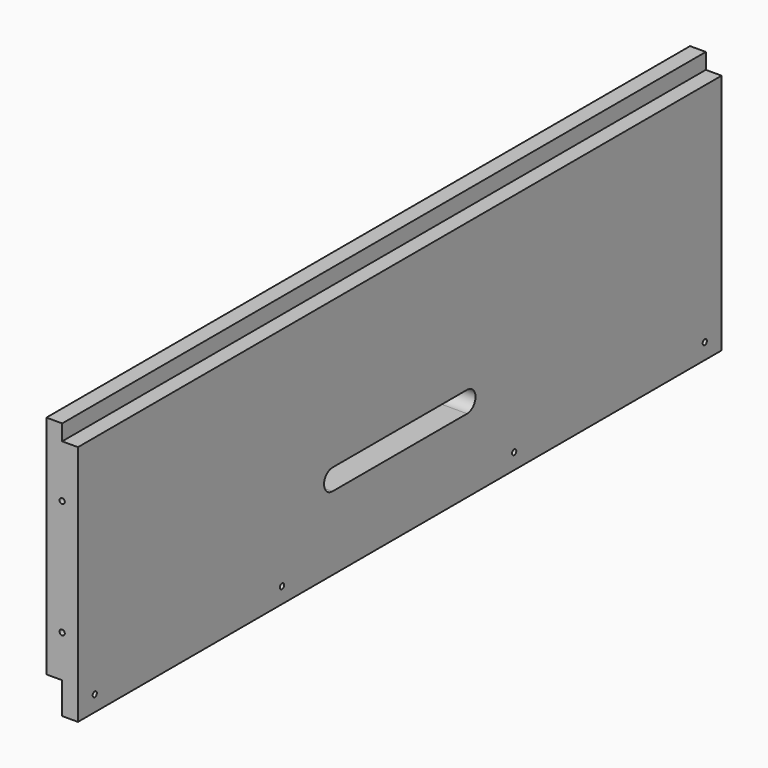
from build123d import *

# Parameters (mm, degrees)
F0_W     = 485.775
F0_H     = 19.05
F0_R     = 1.5875
F0_H_2   = 127
F1_DEPTH = 9.525
F0_H_3   = 9.525
F2_DEPTH = 9.525
F4_R     = 1.5875
F5_DEPTH = 9.525
F3_R     = 1.5875
F6_DEPTH = 9.525


with BuildPart() as f1:
    # F0 (on Right) → F1 (new body)
    with BuildSketch(Plane.YZ):
        with Locations((0, -148.74875)):
            Rectangle(F0_W, F0_H)
        with Locations((-230.1875, -148.74875)):
            Circle(F0_R, mode=Mode.SUBTRACT)
        with Locations((-88.9, -148.74875)):
            Circle(F0_R, mode=Mode.SUBTRACT)
        with Locations((86.36, -148.74875)):
            Circle(F0_R, mode=Mode.SUBTRACT)
        with Locations((230.1875, -148.74875)):
            Circle(F0_R, mode=Mode.SUBTRACT)
        with Locations((0, -75.72375)):
            Rectangle(F0_W, F0_H_2)
        with BuildLine():
            Line((-50.8, -101.12375), (50.8, -101.12375))
            ThreePointArc((50.8, -101.12375), (57.15, -107.47375), (50.8, -113.82375))
            Line((50.8, -113.82375), (-50.8, -113.82375))
            ThreePointArc((-50.8, -113.82375), (-57.15, -107.47375), (-50.8, -101.12375))
        make_face(mode=Mode.SUBTRACT)
    extrude(amount=F1_DEPTH)

    # F0 (on Right) → F2 (join)
    with BuildSketch(Plane.YZ):
        with Locations((0, -75.72375)):
            Rectangle(F0_W, F0_H_2)
        with BuildLine():
            Line((-50.8, -101.12375), (50.8, -101.12375))
            ThreePointArc((50.8, -101.12375), (57.15, -107.47375), (50.8, -113.82375))
            Line((50.8, -113.82375), (-50.8, -113.82375))
            ThreePointArc((-50.8, -113.82375), (-57.15, -107.47375), (-50.8, -101.12375))
        make_face(mode=Mode.SUBTRACT)
        with Locations((0, -7.46125)):
            Rectangle(F0_W, F0_H_3)
    extrude(amount=-F2_DEPTH)

    # F4 (on face) → F5 (cut)
    with BuildSketch(Plane(origin=(0, 242.8875, 0), x_dir=(-1, 0, 0), z_dir=(0, 1, 0))):
        with Locations((0, -43.97375)):
            Circle(F4_R)
        with Locations((0, -113.82375)):
            Circle(F4_R)
    extrude(amount=-F5_DEPTH, mode=Mode.SUBTRACT)

    # F3 (on face) → F6 (cut)
    with BuildSketch(Plane.XZ.offset(242.8875)):
        with Locations((0, -113.82375)):
            Circle(F3_R)
        with Locations((0, -43.97375)):
            Circle(F3_R)
    extrude(amount=-F6_DEPTH, mode=Mode.SUBTRACT)


solid = f1.part
